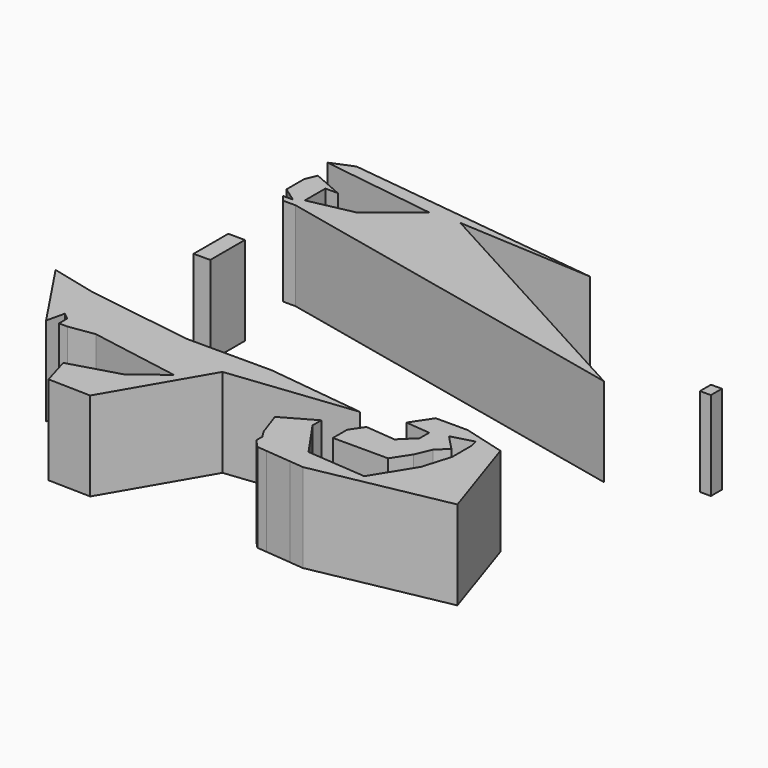
from build123d import *

# Parameters (mm, degrees)
F0_W     = 3.129631
F0_H     = 3.94607
F0_W_2   = 4.7625
F0_H_2   = 9.116786
F0_H_3   = 3.265712
F1_DEPTH = 25.4
F3_DEPTH = 25.4


with BuildPart() as f1:
    # F0 (on Top) → F1 (new body)
    with BuildSketch(Plane.XY):
        with Locations((74.635177, 38.712321)):
            Rectangle(F0_W, F0_H)
        with Locations((-54.224465, 22.519822)):
            Rectangle(F0_W_2, F0_H_2)
        with Locations((-54.224465, 28.711071)):
            Rectangle(F0_W_2, F0_H_3)
        Polygon((35.242502, -10.341429), (31.432502, -16.05643), (38.472609, -16.711323), (38.472609, -20.138571), (34.426071, -24.084644), (25.804761, -23.282663), (23.268215, -27.078215), (23.268215, -32.112859), (39.052498, -32.112859), (42.318217, -27.078215), (44.223215, -22.587858), (47.216784, -19.730357), (42.969148, -15.280458), (49.257856, -13.607142), (49.78521, -15.589061), (49.78521, -18.505715), (49.78521, -22.587858), (47.352858, -30.752143), (40.277146, -42.182144), (23.268215, -40.821429), (15.920358, -30.207857), (15.920358, -27.078215), (6.803571, -32.248929), (9.252857, -39.324641), (10.613573, -41.501783), (10.613573, -43.678928), (12.790714, -45.992143), (15.601738, -46.253634), (22.924207, -46.934793), (26.836423, -47.29872), (65.042146, -39.868928), (56.333572, -13.607142), (44.359285, -10.341429), align=None)
        Polygon((-62.456783, -10.613571), (-75.791784, -7.347857), (-62.184647, -27.758572), (-60.959999, -22.587858), (-59.055001, -24.084644), (-59.055001, -27.078215), (-56.605715, -27.078215), (-49.39393, -25.989644), (-23.540357, -30.480001), (-31.976786, -37.1475), (-46.400357, -41.365717), (-43.980166, -49.641205), (-31.840716, -49.938217), (-15.920358, -22.587858), (20.138571, -18.505715), (-7.756072, -15.103929), (-32.112859, -15.103929), align=None)
    extrude(amount=F1_DEPTH)


with BuildPart() as f3:
    # F2 (on Top) → F3 (new body)
    with BuildSketch(Plane.XY):
        Polygon((-54.564644, 73.614642), (-60.823932, 71.029283), (-28.030714, 66.40286), (-40.413216, 56.333575), (-53.339999, 53.612143), (-53.339999, 60.960002), (-49.802143, 60.960002), (-58.510713, 64.769998), (-59.881687, 61.636341), (-59.881687, 58.646787), (-59.881687, 55.245001), (-55.653214, 52.251428), (-58.510713, 52.251428), (-57.081964, 50.4825), (-54.564644, 50.4825), (-53.476073, 50.4825), (53.340003, 27.078215), (-19.458216, 66.81107), (19.322144, 64.633928), align=None)
    extrude(amount=F3_DEPTH)


solid = Compound([f1.part, f3.part])
